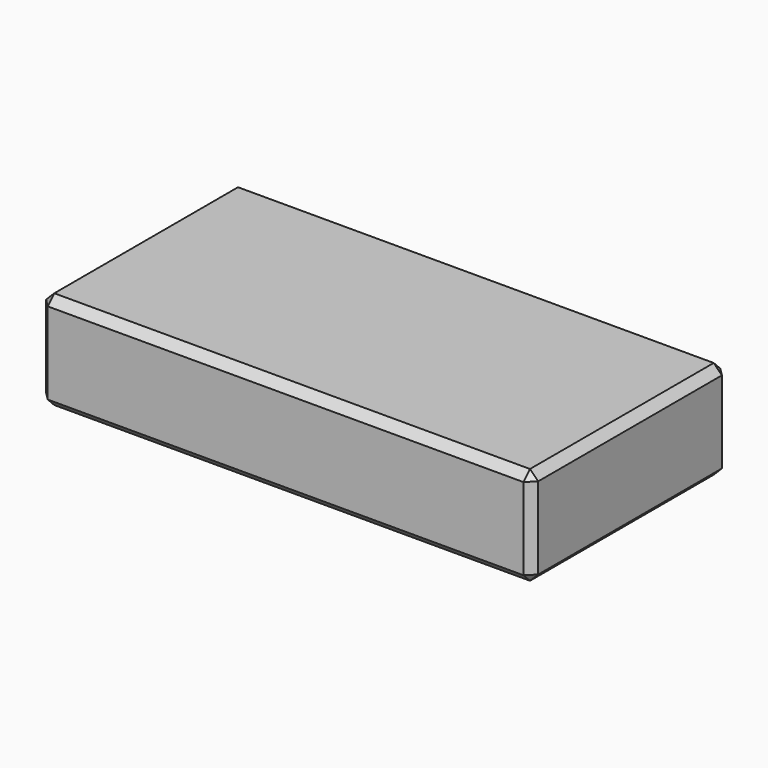
from build123d import *

# Parameters (mm, degrees)
F0_W     = 30
F0_H     = 6
F1_DEPTH = 15
F2_R     = 2.1
F3_DEPTH = 5
F4_SIZE  = 0.5


with BuildPart() as f1:
    # F0 (on Front) → F1 (new body)
    with BuildSketch(Plane.XZ):
        Rectangle(F0_W, F0_H)
    extrude(amount=-F1_DEPTH)

    # F2 (on face) → F3 (cut)
    with BuildSketch(Plane(origin=(0, 15, 0), x_dir=(-1, 0, 0), z_dir=(0, 1, 0))):
        with Locations((-10, 0)):
            Circle(F2_R)
        with Locations((10, 0)):
            Circle(F2_R)
    extrude(amount=-F3_DEPTH, mode=Mode.SUBTRACT)

    # F4
    f4_edges = [f1.edges().sort_by_distance(p)[0] for p in [
        (15, 7.5, 3),
        (-15, 7.5, 3),
        (0, 0, 3),
        (0, 15, 3),
        (-15, 7.5, -3),
        (15, 7.5, -3),
        (0, 0, -3),
        (0, 15, -3),
        (15, 0, 0),
        (15, 15, 0),
        (-15, 0, 0),
        (-15, 15, 0),
    ]]
    chamfer(f4_edges, length=F4_SIZE)


solid = f1.part
